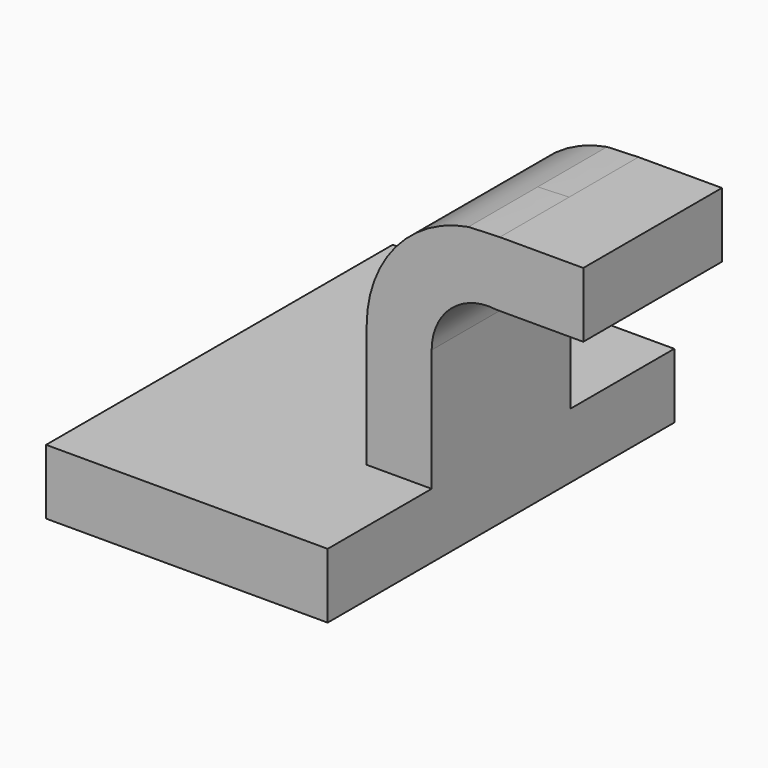
from build123d import *

# Parameters (mm, degrees)
F1_DEPTH = 63.5
F0_W     = 20.577587
F0_H     = 19.05
F2_DEPTH = 25.4


with BuildPart() as f1:
    # F0 (on Front) → F1 (new body, symmetric)
    with BuildSketch(Plane.XZ):
        Polygon((22.225, 9.525), (-41.275, 9.525), (-41.275, -9.525), (41.275, -9.525), (41.275, 9.525), align=None)
    extrude(amount=F1_DEPTH, both=True)

    # F0 (on Front) → F2 (join, symmetric)
    with BuildSketch(Plane.XZ):
        with BuildLine():
            Line((22.225, 45.355249), (22.225, 9.525))
            Line((22.225, 9.525), (41.275, 9.525))
            Line((41.275, 9.525), (41.275, 45.355249))
            ThreePointArc((41.275, 45.355249), (46.988369, 57.941114), (60.223687, 61.9252))
            Line((60.223687, 61.9252), (65.147413, 61.9252))
            Line((65.147413, 61.9252), (65.147413, 80.9752))
            Line((65.147413, 80.9752), (61.259069, 80.9752))
            add(Edge.make_bspline(
                [(52.054894, 80.627956), (55.057686, 80.771935), (58.126083, 80.88648), (61.259069, 80.9752)],
                knots=[118.961513, 118.961513, 118.961513, 118.961513, 124.973463, 124.973463, 124.973463, 124.973463], degree=3))
            ThreePointArc((52.054894, 80.627956), (30.682297, 68.452795), (22.225, 45.355249))
        make_face()
        with Locations((75.436206, 71.4502)):
            Rectangle(F0_W, F0_H)
    extrude(amount=F2_DEPTH, both=True)


solid = f1.part
